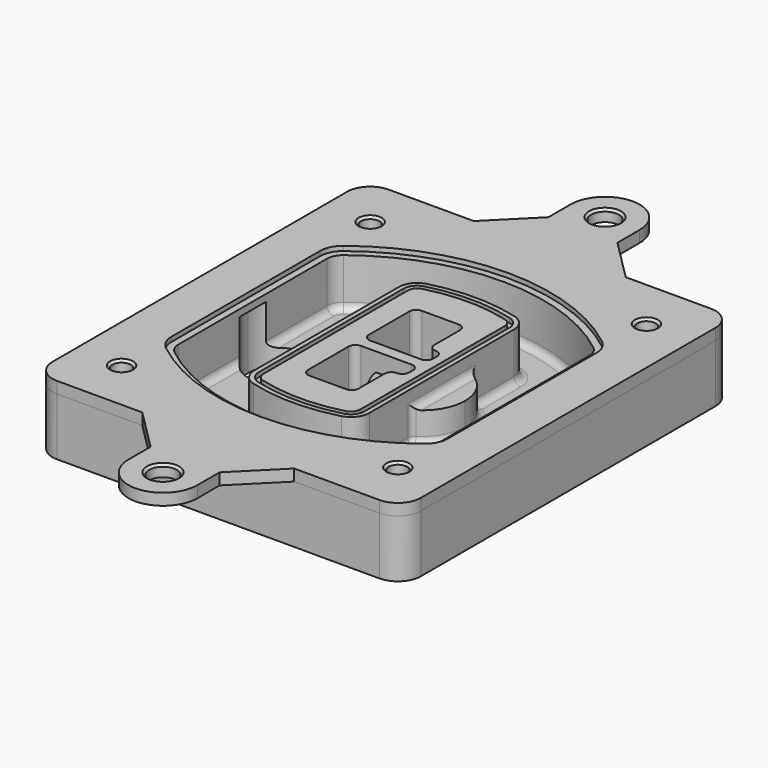
from build123d import *

# Parameters (mm, degrees)
F0_R      = 4
F1_DEPTH  = 25
F2_DEPTH  = 3
F3_DEPTH  = 18
F5_DEPTH  = 21
F6_DEPTH  = 2
F8_DEPTH  = 20
F9_DEPTH  = 16
F10_DEPTH = 25
F7_R      = 6
F7_R_2    = 4
F11_DEPTH = 6
F13_DEPTH = 9
F14_R     = 3
F15_R     = 6
F15_R_2   = 4
F16_DEPTH = 5
F17_SIZE  = 1


with BuildPart() as f1:
    # F0 (on Top) → F1 (new body)
    with BuildSketch(Plane.XY):
        with BuildLine():
            ThreePointArc((14.05, 38.3825811321), (16.9789321881, 31.3115133202), (24.05, 28.3825811321))
            Line((24.05, 28.3825811321), (164.05, 28.3825811321))
            ThreePointArc((164.05, 28.3825811321), (171.1210678119, 31.3115133202), (174.05, 38.3825811321))
            Line((174.05, 38.3825811321), (174.05, 198.3825811321))
            ThreePointArc((174.05, 198.3825811321), (171.1210678119, 205.4536489439), (164.05, 208.3825811321))
            Line((164.05, 208.3825811321), (24.05, 208.3825811321))
            ThreePointArc((24.05, 208.3825811321), (16.9789321881, 205.4536489439), (14.05, 198.3825811321))
            Line((14.05, 198.3825811321), (14.05, 38.3825811321))
        make_face()
        with Locations((34.05, 50.8825811321)):
            Circle(F0_R, mode=Mode.SUBTRACT)
        with Locations((154.05, 50.8825811321)):
            Circle(F0_R, mode=Mode.SUBTRACT)
        with BuildLine():
            ThreePointArc((30.05, 158.6760234193), (31.4679615202, 164.8154295545), (35.4346153846, 169.7112011673))
            ThreePointArc((35.4346153846, 169.7112011673), (94.05, 189.8825811321), (152.6653846154, 169.7112011673))
            ThreePointArc((152.6653846154, 169.7112011673), (156.6320384798, 164.8154295545), (158.05, 158.6760234193))
            Line((158.05, 158.6760234193), (158.05, 78.0891388448))
            ThreePointArc((158.05, 78.0891388448), (156.6320384798, 71.9497327097), (152.6653846154, 67.0539610969))
            ThreePointArc((152.6653846154, 67.0539610969), (94.05, 46.8825811321), (35.4346153846, 67.0539610969))
            ThreePointArc((35.4346153846, 67.0539610969), (31.4679615202, 71.9497327097), (30.05, 78.0891388448))
            Line((30.05, 78.0891388448), (30.05, 158.6760234193))
        make_face(mode=Mode.SUBTRACT)
        with Locations((34.05, 185.8825811321)):
            Circle(F0_R, mode=Mode.SUBTRACT)
        with Locations((154.05, 185.8825811321)):
            Circle(F0_R, mode=Mode.SUBTRACT)
        with BuildLine():
            ThreePointArc((152.6653846154, 169.7112011673), (94.05, 189.8825811321), (35.4346153846, 169.7112011673))
            ThreePointArc((35.4346153846, 169.7112011673), (31.4679615202, 164.8154295545), (30.05, 158.6760234193))
            Line((30.05, 158.6760234193), (30.05, 78.0891388448))
            ThreePointArc((30.05, 78.0891388448), (31.4679615202, 71.9497327097), (35.4346153846, 67.0539610969))
            ThreePointArc((35.4346153846, 67.0539610969), (94.05, 46.8825811321), (152.6653846154, 67.0539610969))
            ThreePointArc((152.6653846154, 67.0539610969), (156.6320384798, 71.9497327097), (158.05, 78.0891388448))
            Line((158.05, 78.0891388448), (158.05, 158.6760234193))
            ThreePointArc((158.05, 158.6760234193), (156.6320384798, 164.8154295545), (152.6653846154, 169.7112011673))
        make_face()
        with BuildLine():
            Line((34.05, 78.0891388448), (34.05, 158.6760234193))
            ThreePointArc((34.05, 158.6760234193), (35.0628296573, 163.0613135158), (37.8961538462, 166.5582932393))
            ThreePointArc((37.8961538462, 166.5582932393), (94.05, 185.8825811321), (150.2038461538, 166.5582932393))
            ThreePointArc((150.2038461538, 166.5582932393), (153.0371703427, 163.0613135158), (154.05, 158.6760234193))
            Line((154.05, 158.6760234193), (154.05, 78.0891388448))
            ThreePointArc((154.05, 78.0891388448), (153.0371703427, 73.7038487483), (150.2038461538, 70.2068690248))
            ThreePointArc((150.2038461538, 70.2068690248), (94.05, 50.8825811321), (37.8961538462, 70.2068690248))
            ThreePointArc((37.8961538462, 70.2068690248), (35.0628296573, 73.7038487483), (34.05, 78.0891388448))
        make_face(mode=Mode.SUBTRACT)
        with BuildLine():
            ThreePointArc((37.8961538462, 166.5582932393), (35.0628296573, 163.0613135158), (34.05, 158.6760234193))
            Line((34.05, 158.6760234193), (34.05, 78.0891388448))
            ThreePointArc((34.05, 78.0891388448), (35.0628296573, 73.7038487483), (37.8961538462, 70.2068690248))
            ThreePointArc((37.8961538462, 70.2068690248), (94.05, 50.8825811321), (150.2038461538, 70.2068690248))
            ThreePointArc((150.2038461538, 70.2068690248), (153.0371703427, 73.7038487483), (154.05, 78.0891388448))
            Line((154.05, 78.0891388448), (154.05, 158.6760234193))
            ThreePointArc((154.05, 158.6760234193), (153.0371703427, 163.0613135158), (150.2038461538, 166.5582932393))
            ThreePointArc((150.2038461538, 166.5582932393), (94.05, 185.8825811321), (37.8961538462, 166.5582932393))
        make_face()
        with BuildLine():
            ThreePointArc((148.3576923077, 164.1936122933), (150.3410192399, 161.7457264869), (151.05, 158.6760234193))
            Line((151.05, 158.6760234193), (151.05, 78.0891388448))
            ThreePointArc((151.05, 78.0891388448), (150.3410192399, 75.0194357772), (148.3576923077, 72.5715499708))
            ThreePointArc((148.3576923077, 72.5715499708), (94.05, 53.8825811321), (39.7423076923, 72.5715499708))
            ThreePointArc((39.7423076923, 72.5715499708), (37.7589807601, 75.0194357772), (37.05, 78.0891388448))
            Line((37.05, 78.0891388448), (37.05, 158.6760234193))
            ThreePointArc((37.05, 158.6760234193), (37.7589807601, 161.7457264869), (39.7423076923, 164.1936122933))
            ThreePointArc((39.7423076923, 164.1936122933), (94.05, 182.8825811321), (148.3576923077, 164.1936122933))
        make_face(mode=Mode.SUBTRACT)
        with BuildLine():
            Line((151.05, 78.0891388448), (151.05, 158.6760234193))
            ThreePointArc((151.05, 158.6760234193), (150.3410192399, 161.7457264869), (148.3576923077, 164.1936122933))
            ThreePointArc((148.3576923077, 164.1936122933), (94.05, 182.8825811321), (39.7423076923, 164.1936122933))
            ThreePointArc((39.7423076923, 164.1936122933), (37.7589807601, 161.7457264869), (37.05, 158.6760234193))
            Line((37.05, 158.6760234193), (37.05, 78.0891388448))
            ThreePointArc((37.05, 78.0891388448), (37.7589807601, 75.0194357772), (39.7423076923, 72.5715499708))
            ThreePointArc((39.7423076923, 72.5715499708), (94.05, 53.8825811321), (148.3576923077, 72.5715499708))
            ThreePointArc((148.3576923077, 72.5715499708), (150.3410192399, 75.0194357772), (151.05, 78.0891388448))
        make_face()
    extrude(amount=-F1_DEPTH)

    # F0 (on Top) → F2 (join)
    with BuildSketch(Plane.XY):
        with BuildLine():
            ThreePointArc((37.8961538462, 166.5582932393), (35.0628296573, 163.0613135158), (34.05, 158.6760234193))
            Line((34.05, 158.6760234193), (34.05, 78.0891388448))
            ThreePointArc((34.05, 78.0891388448), (35.0628296573, 73.7038487483), (37.8961538462, 70.2068690248))
            ThreePointArc((37.8961538462, 70.2068690248), (94.05, 50.8825811321), (150.2038461538, 70.2068690248))
            ThreePointArc((150.2038461538, 70.2068690248), (153.0371703427, 73.7038487483), (154.05, 78.0891388448))
            Line((154.05, 78.0891388448), (154.05, 158.6760234193))
            ThreePointArc((154.05, 158.6760234193), (153.0371703427, 163.0613135158), (150.2038461538, 166.5582932393))
            ThreePointArc((150.2038461538, 166.5582932393), (94.05, 185.8825811321), (37.8961538462, 166.5582932393))
        make_face()
        with BuildLine():
            ThreePointArc((148.3576923077, 164.1936122933), (150.3410192399, 161.7457264869), (151.05, 158.6760234193))
            Line((151.05, 158.6760234193), (151.05, 78.0891388448))
            ThreePointArc((151.05, 78.0891388448), (150.3410192399, 75.0194357772), (148.3576923077, 72.5715499708))
            ThreePointArc((148.3576923077, 72.5715499708), (94.05, 53.8825811321), (39.7423076923, 72.5715499708))
            ThreePointArc((39.7423076923, 72.5715499708), (37.7589807601, 75.0194357772), (37.05, 78.0891388448))
            Line((37.05, 78.0891388448), (37.05, 158.6760234193))
            ThreePointArc((37.05, 158.6760234193), (37.7589807601, 161.7457264869), (39.7423076923, 164.1936122933))
            ThreePointArc((39.7423076923, 164.1936122933), (94.05, 182.8825811321), (148.3576923077, 164.1936122933))
        make_face(mode=Mode.SUBTRACT)
    extrude(amount=F2_DEPTH)

    # F0 (on Top) → F3 (cut)
    with BuildSketch(Plane.XY):
        with BuildLine():
            Line((151.05, 78.0891388448), (151.05, 158.6760234193))
            ThreePointArc((151.05, 158.6760234193), (150.3410192399, 161.7457264869), (148.3576923077, 164.1936122933))
            ThreePointArc((148.3576923077, 164.1936122933), (94.05, 182.8825811321), (39.7423076923, 164.1936122933))
            ThreePointArc((39.7423076923, 164.1936122933), (37.7589807601, 161.7457264869), (37.05, 158.6760234193))
            Line((37.05, 158.6760234193), (37.05, 78.0891388448))
            ThreePointArc((37.05, 78.0891388448), (37.7589807601, 75.0194357772), (39.7423076923, 72.5715499708))
            ThreePointArc((39.7423076923, 72.5715499708), (94.05, 53.8825811321), (148.3576923077, 72.5715499708))
            ThreePointArc((148.3576923077, 72.5715499708), (150.3410192399, 75.0194357772), (151.05, 78.0891388448))
        make_face()
    extrude(amount=-F3_DEPTH, mode=Mode.SUBTRACT)

    # F4 (on face) → F5 (join, through all)
    with BuildSketch(Plane.XY.offset(3)):
        with BuildLine():
            ThreePointArc((69.05, 79.13605345), (70.6988454002, 74.2716074128), (74.9657088123, 71.4123412437))
            ThreePointArc((74.9657088123, 71.4123412437), (94.05, 68.8825811321), (113.1342911877, 71.4123412437))
            ThreePointArc((113.1342911877, 71.4123412437), (117.4011545998, 74.2716074128), (119.05, 79.13605345))
            Line((119.05, 79.13605345), (119.05, 157.6291088141))
            ThreePointArc((119.05, 157.6291088141), (117.4011545998, 162.4935548514), (113.1342911877, 165.3528210204))
            ThreePointArc((113.1342911877, 165.3528210204), (94.05, 167.8825811321), (74.9657088123, 165.3528210204))
            ThreePointArc((74.9657088123, 165.3528210204), (70.6988454002, 162.4935548514), (69.05, 157.6291088141))
            Line((69.05, 157.6291088141), (69.05, 79.13605345))
        make_face()
        with BuildLine():
            ThreePointArc((112.6132183908, 163.4218929688), (115.8133659499, 161.2774433421), (117.05, 157.6291088141))
            Line((117.05, 157.6291088141), (117.05, 79.13605345))
            ThreePointArc((117.05, 79.13605345), (115.8133659499, 75.4877189221), (112.6132183908, 73.3432692953))
            ThreePointArc((112.6132183908, 73.3432692953), (94.05, 70.8825811321), (75.4867816092, 73.3432692953))
            ThreePointArc((75.4867816092, 73.3432692953), (72.2866340501, 75.4877189221), (71.05, 79.13605345))
            Line((71.05, 79.13605345), (71.05, 157.6291088141))
            ThreePointArc((71.05, 157.6291088141), (72.2866340501, 161.2774433421), (75.4867816092, 163.4218929688))
            ThreePointArc((75.4867816092, 163.4218929688), (94.05, 165.8825811321), (112.6132183908, 163.4218929688))
        make_face(mode=Mode.SUBTRACT)
        with BuildLine():
            Line((117.05, 79.13605345), (117.05, 157.6291088141))
            ThreePointArc((117.05, 157.6291088141), (115.8133659499, 161.2774433421), (112.6132183908, 163.4218929688))
            ThreePointArc((112.6132183908, 163.4218929688), (94.05, 165.8825811321), (75.4867816092, 163.4218929688))
            ThreePointArc((75.4867816092, 163.4218929688), (72.2866340501, 161.2774433421), (71.05, 157.6291088141))
            Line((71.05, 157.6291088141), (71.05, 79.13605345))
            ThreePointArc((71.05, 79.13605345), (72.2866340501, 75.4877189221), (75.4867816092, 73.3432692953))
            ThreePointArc((75.4867816092, 73.3432692953), (94.05, 70.8825811321), (112.6132183908, 73.3432692953))
            ThreePointArc((112.6132183908, 73.3432692953), (115.8133659499, 75.4877189221), (117.05, 79.13605345))
        make_face()
        with BuildLine():
            ThreePointArc((112.0921455939, 161.4909649173), (114.2255772999, 160.0613318328), (115.05, 157.6291088141))
            Line((115.05, 157.6291088141), (115.05, 79.13605345))
            ThreePointArc((115.05, 79.13605345), (114.2255772999, 76.7038304314), (112.0921455939, 75.2741973469))
            ThreePointArc((112.0921455939, 75.2741973469), (94.05, 72.8825811321), (76.0078544061, 75.2741973469))
            ThreePointArc((76.0078544061, 75.2741973469), (73.8744227001, 76.7038304314), (73.05, 79.13605345))
            Line((73.05, 79.13605345), (73.05, 157.6291088141))
            ThreePointArc((73.05, 157.6291088141), (73.8744227001, 160.0613318328), (76.0078544061, 161.4909649173))
            ThreePointArc((76.0078544061, 161.4909649173), (94.05, 163.8825811321), (112.0921455939, 161.4909649173))
        make_face(mode=Mode.SUBTRACT)
        with BuildLine():
            Line((115.05, 79.13605345), (115.05, 157.6291088141))
            ThreePointArc((115.05, 157.6291088141), (114.2255772999, 160.0613318328), (112.0921455939, 161.4909649173))
            ThreePointArc((112.0921455939, 161.4909649173), (94.05, 163.8825811321), (76.0078544061, 161.4909649173))
            ThreePointArc((76.0078544061, 161.4909649173), (73.8744227001, 160.0613318328), (73.05, 157.6291088141))
            Line((73.05, 157.6291088141), (73.05, 79.13605345))
            ThreePointArc((73.05, 79.13605345), (73.8744227001, 76.7038304314), (76.0078544061, 75.2741973469))
            ThreePointArc((76.0078544061, 75.2741973469), (94.05, 72.8825811321), (112.0921455939, 75.2741973469))
            ThreePointArc((112.0921455939, 75.2741973469), (114.2255772999, 76.7038304314), (115.05, 79.13605345))
        make_face()
        with BuildLine():
            Line((86.05, 115.8825811321), (108.05, 115.8825811321))
            ThreePointArc((108.05, 115.8825811321), (110.1713203436, 115.0039014756), (111.05, 112.8825811321))
            Line((111.05, 112.8825811321), (111.05, 110.8825811321))
            ThreePointArc((111.05, 110.8825811321), (110.1713203436, 108.7612607885), (108.05, 107.8825811321))
            ThreePointArc((108.05, 107.8825811321), (105.9286796564, 107.0039014756), (105.05, 104.8825811321))
            Line((105.05, 104.8825811321), (105.05, 90.8825811321))
            ThreePointArc((105.05, 90.8825811321), (104.1713203436, 88.7612607885), (102.05, 87.8825811321))
            Line((102.05, 87.8825811321), (86.05, 87.8825811321))
            ThreePointArc((86.05, 87.8825811321), (83.9286796564, 88.7612607885), (83.05, 90.8825811321))
            Line((83.05, 90.8825811321), (83.05, 112.8825811321))
            ThreePointArc((83.05, 112.8825811321), (83.9286796564, 115.0039014756), (86.05, 115.8825811321))
        make_face(mode=Mode.SUBTRACT)
        with BuildLine():
            ThreePointArc((86.05, 120.8825811321), (83.9286796564, 121.7612607885), (83.05, 123.8825811321))
            Line((83.05, 123.8825811321), (83.05, 145.8825811321))
            ThreePointArc((83.05, 145.8825811321), (83.9286796564, 148.0039014756), (86.05, 148.8825811321))
            Line((86.05, 148.8825811321), (102.05, 148.8825811321))
            ThreePointArc((102.05, 148.8825811321), (104.1713203436, 148.0039014756), (105.05, 145.8825811321))
            Line((105.05, 145.8825811321), (105.05, 131.8825811321))
            ThreePointArc((105.05, 131.8825811321), (105.9286796564, 129.7612607885), (108.05, 128.8825811321))
            ThreePointArc((108.05, 128.8825811321), (110.1713203436, 128.0039014756), (111.05, 125.8825811321))
            Line((111.05, 125.8825811321), (111.05, 123.8825811321))
            ThreePointArc((111.05, 123.8825811321), (110.1713203436, 121.7612607885), (108.05, 120.8825811321))
            Line((108.05, 120.8825811321), (86.05, 120.8825811321))
        make_face(mode=Mode.SUBTRACT)
    extrude(amount=-F5_DEPTH)

    # F4 (on face) → F6 (cut)
    with BuildSketch(Plane.XY.offset(3)):
        with BuildLine():
            Line((117.05, 79.13605345), (117.05, 157.6291088141))
            ThreePointArc((117.05, 157.6291088141), (115.8133659499, 161.2774433421), (112.6132183908, 163.4218929688))
            ThreePointArc((112.6132183908, 163.4218929688), (94.05, 165.8825811321), (75.4867816092, 163.4218929688))
            ThreePointArc((75.4867816092, 163.4218929688), (72.2866340501, 161.2774433421), (71.05, 157.6291088141))
            Line((71.05, 157.6291088141), (71.05, 79.13605345))
            ThreePointArc((71.05, 79.13605345), (72.2866340501, 75.4877189221), (75.4867816092, 73.3432692953))
            ThreePointArc((75.4867816092, 73.3432692953), (94.05, 70.8825811321), (112.6132183908, 73.3432692953))
            ThreePointArc((112.6132183908, 73.3432692953), (115.8133659499, 75.4877189221), (117.05, 79.13605345))
        make_face()
        with BuildLine():
            ThreePointArc((112.0921455939, 161.4909649173), (114.2255772999, 160.0613318328), (115.05, 157.6291088141))
            Line((115.05, 157.6291088141), (115.05, 79.13605345))
            ThreePointArc((115.05, 79.13605345), (114.2255772999, 76.7038304314), (112.0921455939, 75.2741973469))
            ThreePointArc((112.0921455939, 75.2741973469), (94.05, 72.8825811321), (76.0078544061, 75.2741973469))
            ThreePointArc((76.0078544061, 75.2741973469), (73.8744227001, 76.7038304314), (73.05, 79.13605345))
            Line((73.05, 79.13605345), (73.05, 157.6291088141))
            ThreePointArc((73.05, 157.6291088141), (73.8744227001, 160.0613318328), (76.0078544061, 161.4909649173))
            ThreePointArc((76.0078544061, 161.4909649173), (94.05, 163.8825811321), (112.0921455939, 161.4909649173))
        make_face(mode=Mode.SUBTRACT)
    extrude(amount=-F6_DEPTH, mode=Mode.SUBTRACT)

    # F7 (on face) → F8 (join)
    with BuildSketch(Plane(origin=(0, 0, -25), x_dir=(1, 0, 0), z_dir=(0, 0, -1))):
        with BuildLine():
            ThreePointArc((97.33842436, -118.3825811321), (110.8067035675, -104.9143019245), (124.274982775, -118.3825811321))
            Line((124.274982775, -118.3825811321), (129.274982775, -118.3825811321))
            ThreePointArc((129.274982775, -118.3825811321), (110.8067035675, -99.9143019245), (92.33842436, -118.3825811321))
            Line((92.33842436, -118.3825811321), (97.33842436, -118.3825811321))
        make_face()
        with BuildLine():
            Line((97.33842436, -118.3825811321), (124.274982775, -118.3825811321))
            ThreePointArc((124.274982775, -118.3825811321), (110.8067035675, -104.9143019245), (97.33842436, -118.3825811321))
        make_face()
        with BuildLine():
            ThreePointArc((97.33842436, -118.3825811321), (110.8067035675, -131.8508603396), (124.274982775, -118.3825811321))
            Line((124.274982775, -118.3825811321), (97.33842436, -118.3825811321))
        make_face()
        with BuildLine():
            Line((129.274982775, -118.3825811321), (124.274982775, -118.3825811321))
            ThreePointArc((124.274982775, -118.3825811321), (110.8067035675, -131.8508603396), (97.33842436, -118.3825811321))
            Line((97.33842436, -118.3825811321), (92.33842436, -118.3825811321))
            ThreePointArc((92.33842436, -118.3825811321), (110.8067035675, -136.8508603396), (129.274982775, -118.3825811321))
        make_face()
    extrude(amount=-F8_DEPTH)

    # F7 (on face) → F9 (cut)
    with BuildSketch(Plane(origin=(0, 0, -25), x_dir=(1, 0, 0), z_dir=(0, 0, -1))):
        with BuildLine():
            Line((97.33842436, -118.3825811321), (124.274982775, -118.3825811321))
            ThreePointArc((124.274982775, -118.3825811321), (110.8067035675, -104.9143019245), (97.33842436, -118.3825811321))
        make_face()
        with BuildLine():
            ThreePointArc((97.33842436, -118.3825811321), (110.8067035675, -131.8508603396), (124.274982775, -118.3825811321))
            Line((124.274982775, -118.3825811321), (97.33842436, -118.3825811321))
        make_face()
    extrude(amount=-F9_DEPTH, mode=Mode.SUBTRACT)

    # F7 (on face) → F10 (cut)
    with BuildSketch(Plane(origin=(0, 0, -25), x_dir=(1, 0, 0), z_dir=(0, 0, -1))):
        with BuildLine():
            Line((35.0181770675, -118.3825811321), (61.9547354825, -118.3825811321))
            ThreePointArc((61.9547354825, -118.3825811321), (48.486456275, -104.9143019245), (35.0181770675, -118.3825811321))
        make_face()
        with BuildLine():
            ThreePointArc((35.0181770675, -118.3825811321), (48.486456275, -131.8508603396), (61.9547354825, -118.3825811321))
            Line((61.9547354825, -118.3825811321), (35.0181770675, -118.3825811321))
        make_face()
    extrude(amount=-F10_DEPTH, mode=Mode.SUBTRACT)

    # F7 (on face) → F11 (cut)
    with BuildSketch(Plane(origin=(0, 0, -25), x_dir=(1, 0, 0), z_dir=(0, 0, -1))):
        with Locations((154.05, -185.8825811321)):
            Circle(F7_R)
        with Locations((154.05, -185.8825811321)):
            Circle(F7_R_2, mode=Mode.SUBTRACT)
        with Locations((154.05, -185.8825811321)):
            Circle(F7_R)
        with Locations((154.05, -185.8825811321)):
            Circle(F7_R_2, mode=Mode.SUBTRACT)
        with Locations((34.05, -185.8825811321)):
            Circle(F7_R)
        with Locations((34.05, -185.8825811321)):
            Circle(F7_R_2, mode=Mode.SUBTRACT)
        with Locations((34.05, -185.8825811321)):
            Circle(F7_R)
        with Locations((34.05, -185.8825811321)):
            Circle(F7_R_2, mode=Mode.SUBTRACT)
        with Locations((34.05, -50.8825811321)):
            Circle(F7_R)
        with Locations((34.05, -50.8825811321)):
            Circle(F7_R_2, mode=Mode.SUBTRACT)
        with Locations((34.05, -50.8825811321)):
            Circle(F7_R)
        with Locations((34.05, -50.8825811321)):
            Circle(F7_R_2, mode=Mode.SUBTRACT)
        with Locations((154.05, -50.8825811321)):
            Circle(F7_R)
        with Locations((154.05, -50.8825811321)):
            Circle(F7_R_2, mode=Mode.SUBTRACT)
        with Locations((154.05, -50.8825811321)):
            Circle(F7_R)
        with Locations((154.05, -50.8825811321)):
            Circle(F7_R_2, mode=Mode.SUBTRACT)
    extrude(amount=-F11_DEPTH, mode=Mode.SUBTRACT)

    # F12 (on face) → F13 (cut, through all)
    with BuildSketch(Plane(origin=(0, 0, -9), x_dir=(1, 0, 0), z_dir=(0, 0, -1))):
        with BuildLine():
            Line((105.05, -104.8825811321), (105.05, -100.8344273567))
            ThreePointArc((105.05, -100.8344273567), (96.6196536419, -106.5586667507), (92.5084157545, -115.8825811321))
            Line((92.5084157545, -115.8825811321), (97.5724848595, -115.8825811321))
            ThreePointArc((97.5724848595, -115.8825811321), (100.2357188154, -110.0369939039), (105.3036447004, -106.0898642673))
            ThreePointArc((105.3036447004, -106.0898642673), (105.1140958889, -105.4994012441), (105.05, -104.8825811321))
        make_face()
        with BuildLine():
            ThreePointArc((105.3036447004, -130.6752979968), (100.2357188154, -126.7281683602), (97.5724848595, -120.8825811321))
            Line((97.5724848595, -120.8825811321), (92.5084157545, -120.8825811321))
            ThreePointArc((92.5084157545, -120.8825811321), (96.6196536419, -130.2064955134), (105.05, -135.9307349074))
            Line((105.05, -135.9307349074), (105.05, -131.8825811321))
            ThreePointArc((105.05, -131.8825811321), (105.1140958889, -131.26576102), (105.3036447004, -130.6752979968))
        make_face()
        with BuildLine():
            ThreePointArc((105.3036447004, -106.0898642673), (100.2357188154, -110.0369939039), (97.5724848595, -115.8825811321))
            Line((97.5724848595, -115.8825811321), (108.05, -115.8825811321))
            ThreePointArc((108.05, -115.8825811321), (110.1713203436, -115.0039014756), (111.05, -112.8825811321))
            Line((111.05, -112.8825811321), (111.05, -110.8825811321))
            ThreePointArc((111.05, -110.8825811321), (110.1713203436, -108.7612607885), (108.05, -107.8825811321))
            ThreePointArc((108.05, -107.8825811321), (106.4101599782, -107.3947365219), (105.3036447004, -106.0898642673))
        make_face()
        with BuildLine():
            Line((108.05, -120.8825811321), (97.5724848595, -120.8825811321))
            ThreePointArc((97.5724848595, -120.8825811321), (100.2357188154, -126.7281683602), (105.3036447004, -130.6752979968))
            ThreePointArc((105.3036447004, -130.6752979968), (106.4101599782, -129.3704257422), (108.05, -128.8825811321))
            ThreePointArc((108.05, -128.8825811321), (110.1713203436, -128.0039014756), (111.05, -125.8825811321))
            Line((111.05, -125.8825811321), (111.05, -123.8825811321))
            ThreePointArc((111.05, -123.8825811321), (110.1713203436, -121.7612607885), (108.05, -120.8825811321))
        make_face()
    extrude(amount=F13_DEPTH, mode=Mode.SUBTRACT)

    # F14
    f14_edges = [f1.edges().sort_by_distance(p)[0] for p in [
        (37.05, 94.679105, -18),
        (37.05, 142.086057, -18),
        (119.05, 118.382581, -5),
        (119.05, 134.909087, -11.5),
        (119.05, 101.856075, -11.5),
        (119.05, 90.496064, -18),
        (129.274983, 118.382581, -18),
    ]]
    fillet(f14_edges, radius=F14_R)


with BuildPart() as f16:
    # F15 (on face) → F16 (new body)
    with BuildSketch(Plane.XY):
        with BuildLine():
            ThreePointArc((109.05, 238.3825811321), (94.05, 253.3825811321), (79.05, 238.3825811321))
            ThreePointArc((79.05, 238.3825811321), (94.05, 223.3825811321), (109.05, 238.3825811321))
        make_face()
        with Locations((94.05, 238.3825811321)):
            Circle(F15_R, mode=Mode.SUBTRACT)
        with BuildLine():
            Line((79.05, 226.3825811321), (61.05, 208.3825811321))
            Line((61.05, 208.3825811321), (127.05, 208.3825811321))
            Line((127.05, 208.3825811321), (109.05, 226.3825811321))
            Line((109.05, 226.3825811321), (109.05, 238.3825811321))
            ThreePointArc((109.05, 238.3825811321), (94.05, 223.3825811321), (79.05, 238.3825811321))
            Line((79.05, 238.3825811321), (79.05, 226.3825811321))
        make_face()
        with BuildLine():
            Line((127.05, 208.3825811321), (61.05, 208.3825811321))
            Line((61.05, 208.3825811321), (24.05, 208.3825811321))
            ThreePointArc((24.05, 208.3825811321), (16.9789321881, 205.4536489439), (14.05, 198.3825811321))
            Line((14.05, 198.3825811321), (14.05, 38.3825811321))
            ThreePointArc((14.05, 38.3825811321), (16.9789321881, 31.3115133202), (24.05, 28.3825811321))
            Line((24.05, 28.3825811321), (61.05, 28.3825811321))
            Line((61.05, 28.3825811321), (127.05, 28.3825811321))
            Line((127.05, 28.3825811321), (164.05, 28.3825811321))
            ThreePointArc((164.05, 28.3825811321), (171.1210678119, 31.3115133202), (174.05, 38.3825811321))
            Line((174.05, 38.3825811321), (174.05, 198.3825811321))
            ThreePointArc((174.05, 198.3825811321), (171.1210678119, 205.4536489439), (164.05, 208.3825811321))
            Line((164.05, 208.3825811321), (127.05, 208.3825811321))
        make_face()
        with Locations((34.05, 50.8825811321)):
            Circle(F15_R_2, mode=Mode.SUBTRACT)
        with BuildLine():
            ThreePointArc((34.05, 158.6760234193), (35.0628296573, 163.0613135158), (37.8961538462, 166.5582932393))
            ThreePointArc((37.8961538462, 166.5582932393), (94.05, 185.8825811321), (150.2038461538, 166.5582932393))
            ThreePointArc((150.2038461538, 166.5582932393), (153.0371703427, 163.0613135158), (154.05, 158.6760234193))
            Line((154.05, 158.6760234193), (154.05, 78.0891388448))
            ThreePointArc((154.05, 78.0891388448), (153.0371703427, 73.7038487483), (150.2038461538, 70.2068690248))
            ThreePointArc((150.2038461538, 70.2068690248), (94.05, 50.8825811321), (37.8961538462, 70.2068690248))
            ThreePointArc((37.8961538462, 70.2068690248), (35.0628296573, 73.7038487483), (34.05, 78.0891388448))
            Line((34.05, 78.0891388448), (34.05, 158.6760234193))
        make_face(mode=Mode.SUBTRACT)
        with Locations((154.05, 50.8825811321)):
            Circle(F15_R_2, mode=Mode.SUBTRACT)
        with Locations((34.05, 185.8825811321)):
            Circle(F15_R_2, mode=Mode.SUBTRACT)
        with Locations((154.05, 185.8825811321)):
            Circle(F15_R_2, mode=Mode.SUBTRACT)
        with BuildLine():
            Line((127.05, 28.3825811321), (61.05, 28.3825811321))
            Line((61.05, 28.3825811321), (79.05, 10.3825811321))
            Line((79.05, 10.3825811321), (79.05, -1.6174188679))
            ThreePointArc((79.05, -1.6174188679), (94.05, 13.3825811321), (109.05, -1.6174188679))
            Line((109.05, -1.6174188679), (109.05, 10.3825811321))
            Line((109.05, 10.3825811321), (127.05, 28.3825811321))
        make_face()
        with BuildLine():
            ThreePointArc((109.05, -1.6174188679), (94.05, 13.3825811321), (79.05, -1.6174188679))
            ThreePointArc((79.05, -1.6174188679), (94.05, -16.6174188679), (109.05, -1.6174188679))
        make_face()
        with Locations((94.05, -1.6174188679)):
            Circle(F15_R, mode=Mode.SUBTRACT)
    extrude(amount=F16_DEPTH)

    # F17
    f17_edges = [f16.edges().sort_by_distance(p)[0] for p in [
        (150.05, 50.882581, 5),
        (30.05, 50.882581, 5),
        (30.05, 185.882581, 5),
        (150.05, 185.882581, 5),
        (88.05, -1.617419, 5),
        (88.05, 238.382581, 5),
    ]]
    chamfer(f17_edges, length=F17_SIZE)


solid = Compound([f1.part, f16.part])
